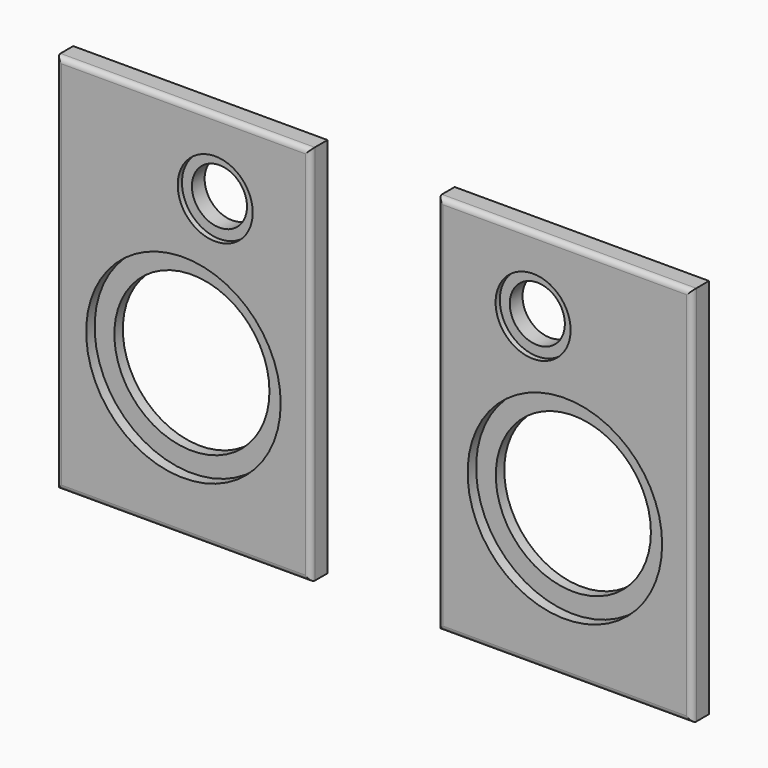
from build123d import *

# Parameters (mm, degrees)
SKETCH001_W     = 152.4
SKETCH001_H     = 228.6
SKETCH001_R     = 16.51
SKETCH001_R_2   = 46.482
PAD_DEPTH       = 12.7
SKETCH002_R     = 58.293
POCKET_DEPTH    = 6.35
SKETCH003_R     = 22.479
POCKET001_DEPTH = 3.175
FILLET_R        = 3.175
SKETCH005_W     = 152.4
SKETCH005_H     = 228.6
SKETCH005_R     = 16.51
SKETCH005_R_2   = 46.482
PAD001_DEPTH    = 12.7
SKETCH006_R     = 58.293
POCKET002_DEPTH = 6.35
SKETCH007_R     = 22.479
POCKET003_DEPTH = 3.175
FILLET001_R     = 3.175


with BuildPart() as baffle_left:
    # Sketch001 → Pad (new body)
    with BuildSketch(Plane.XZ):
        with Locations((76.2, 114.3)):
            Rectangle(SKETCH001_W, SKETCH001_H)
        with Locations((95.25, 184.15)):
            Circle(SKETCH001_R, mode=Mode.SUBTRACT)
        with Locations((76.2, 88.9)):
            Circle(SKETCH001_R_2, mode=Mode.SUBTRACT)
    extrude(amount=PAD_DEPTH)

    # Sketch002 (on Face8 of Pad) → Pocket (cut)
    with BuildSketch(Plane.XZ.offset(12.7)):
        with Locations((76.2, 88.9)):
            Circle(SKETCH002_R)
    extrude(amount=-POCKET_DEPTH, mode=Mode.SUBTRACT)

    # Sketch003 (on Face5 of Pocket) → Pocket001 (cut)
    with BuildSketch(Plane.XZ.offset(12.7)):
        with Locations((95.25, 184.15)):
            Circle(SKETCH003_R)
    extrude(amount=-POCKET001_DEPTH, mode=Mode.SUBTRACT)

    # Fillet
    fillet_edges = [baffle_left.edges().sort_by_distance(p)[0] for p in [
        (76.2, -12.7, 228.6),
        (0, -12.7, 114.3),
        (76.2, -12.7, 0),
        (152.4, -12.7, 114.3),
    ]]
    fillet(fillet_edges, radius=FILLET_R)


with BuildPart() as baffle_left_1:
    # Body placement: moved
    add(baffle_left.part.moved(Location((-228.6, 0, 0))))


with BuildPart() as baffle_right:
    # Sketch005 → Pad001 (new body)
    with BuildSketch(Plane.XZ):
        with Locations((76.2, 114.3)):
            Rectangle(SKETCH005_W, SKETCH005_H)
        with Locations((57.15, 184.15)):
            Circle(SKETCH005_R, mode=Mode.SUBTRACT)
        with Locations((76.2, 88.9)):
            Circle(SKETCH005_R_2, mode=Mode.SUBTRACT)
    extrude(amount=PAD001_DEPTH)

    # Sketch006 (on Face8 of Pad001) → Pocket002 (cut)
    with BuildSketch(Plane.XZ.offset(12.7)):
        with Locations((76.2, 88.9)):
            Circle(SKETCH006_R)
    extrude(amount=-POCKET002_DEPTH, mode=Mode.SUBTRACT)

    # Sketch007 (on Face5 of Pocket002) → Pocket003 (cut)
    with BuildSketch(Plane.XZ.offset(12.7)):
        with Locations((57.15, 184.15)):
            Circle(SKETCH007_R)
    extrude(amount=-POCKET003_DEPTH, mode=Mode.SUBTRACT)

    # Fillet001
    fillet001_edges = [baffle_right.edges().sort_by_distance(p)[0] for p in [
        (76.2, -12.7, 228.6),
        (0, -12.7, 114.3),
        (76.2, -12.7, 0),
        (152.4, -12.7, 114.3),
    ]]
    fillet(fillet001_edges, radius=FILLET001_R)


solid = Compound([baffle_left_1.part, baffle_right.part])
